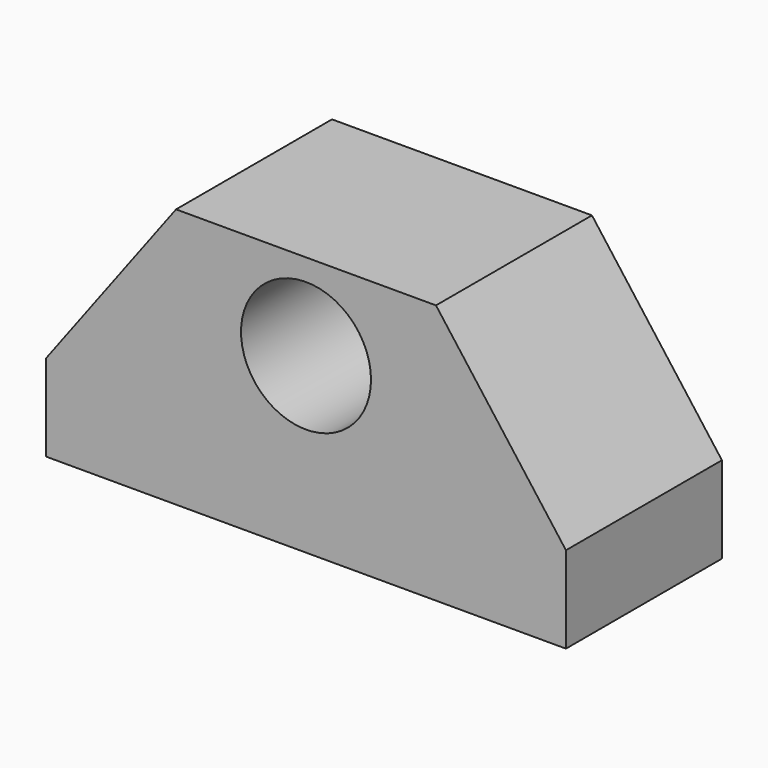
from build123d import *

# Parameters (mm, degrees)
F0_R     = 19.05
F1_DEPTH = 57.15


with BuildPart() as f1:
    # F0 (on Front) → F1 (new body)
    with BuildSketch(Plane.XZ):
        Polygon((-76.2, -25.4), (-76.2, -50.8), (76.2, -50.8), (76.2, -25.4), (38.1, 25.4), (0, 25.4), (-38.1, 25.4), align=None)
        Circle(F0_R, mode=Mode.SUBTRACT)
    extrude(amount=F1_DEPTH)


solid = f1.part
